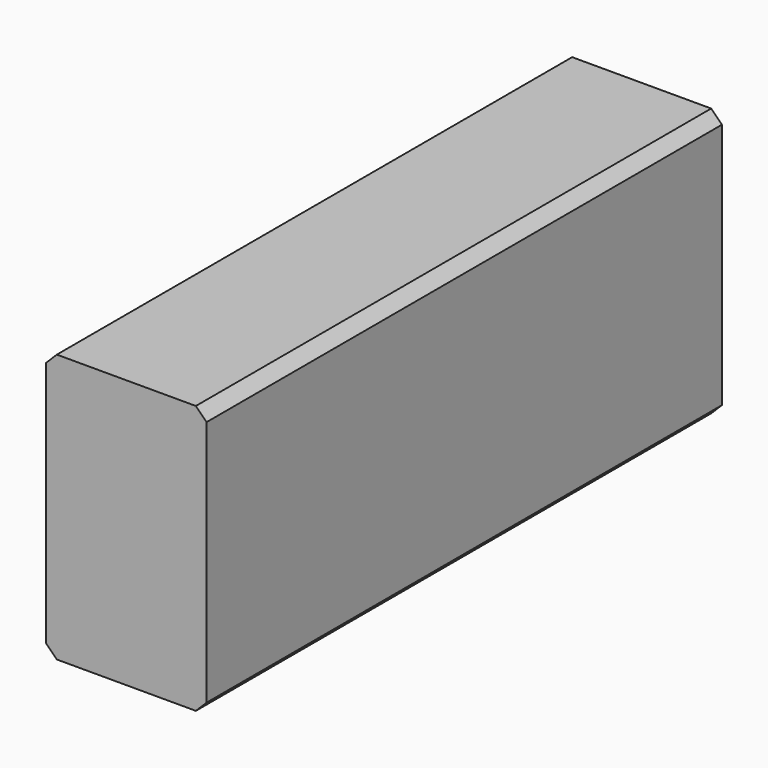
from build123d import *

# Parameters (mm, degrees)
F0_W     = 37.973
F0_H     = 63.5
F0_W_2   = 31.7246
F0_H_2   = 57.15
F1_DEPTH = 152.4
F2_W     = 37.973
F2_H     = 63.5
F3_DEPTH = 6.35
F5_SIZE  = 2.54


with BuildPart() as f1:
    # F0 (on Front) → F1 (new body)
    with BuildSketch(Plane.XZ):
        Rectangle(F0_W, F0_H)
        Rectangle(F0_W_2, F0_H_2, mode=Mode.SUBTRACT)
    extrude(amount=F1_DEPTH)

    # F2 (on face) → F3 (join)
    with BuildSketch(Plane.XZ.offset(152.4)):
        Rectangle(F2_W, F2_H)
    extrude(amount=-F3_DEPTH)

    # F5
    f5_edges = [f1.edges().sort_by_distance(p)[0] for p in [
        (18.9865, -76.2, 31.75),
        (-18.9865, -76.2, 31.75),
        (18.9865, -76.2, -31.75),
        (-18.9865, -76.2, -31.75),
    ]]
    chamfer(f5_edges, length=F5_SIZE)


solid = f1.part
